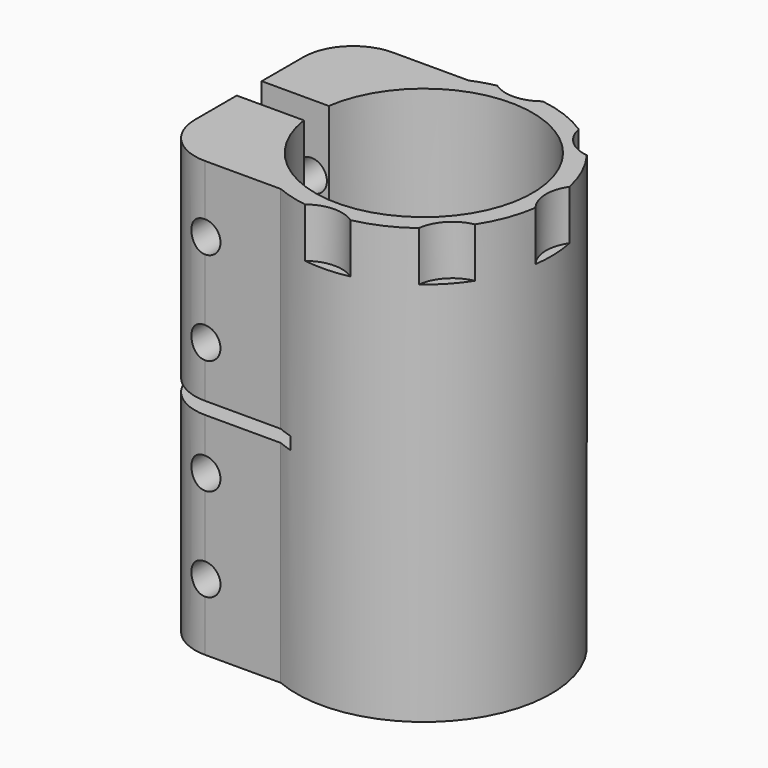
from build123d import *

# Parameters (mm, degrees)
F1_DEPTH       = 35
F3_D           = 5
F3_START       = 1.7550021
F3_CBORE_D     = 10
F3_CBORE_DEPTH = 8
F4_W           = 22.4
F4_H           = 2
F5_DEPTH       = 25
F6_R           = 6
F7_DEPTH       = 8


with BuildPart() as f1:
    # F0 (on Top) → F1 (new body, symmetric)
    with BuildSketch(Plane.XY):
        with BuildLine():
            ThreePointArc((-17.3192642082, 2.5086026559), (17.5, 0), (-17.3192642082, -2.5086026559))
            Line((-17.3192642082, -2.5086026559), (-20.3459311096, -2.5086026559))
            ThreePointArc((-20.3459311096, -2.5086026559), (-16.3392263155, -12.3806172468), (-7.9192642082, -18.9086026559))
            ThreePointArc((-7.9192642082, -18.9086026559), (20.5, 0), (-7.9192642082, 18.9086026559))
            Line((-7.9192642082, 18.9086026559), (-20.1192642082, 18.9086026559))
            ThreePointArc((-20.1192642082, 18.9086026559), (-25.7761184577, 16.5654569054), (-28.1192642082, 10.9086026559))
            Line((-28.1192642082, 10.9086026559), (-28.1192642082, 2.5086026559))
            Line((-28.1192642082, 2.5086026559), (-17.3192642082, 2.5086026559))
        make_face()
        with BuildLine():
            ThreePointArc((-7.9192642082, -18.9086026559), (-16.3392263155, -12.3806172468), (-20.3459311096, -2.5086026559))
            Line((-20.3459311096, -2.5086026559), (-28.1192642082, -2.5086026559))
            Line((-28.1192642082, -2.5086026559), (-28.1192642082, -10.9086026559))
            ThreePointArc((-28.1192642082, -10.9086026559), (-25.7761184577, -16.5654569054), (-20.1192642082, -18.9086026559))
            Line((-20.1192642082, -18.9086026559), (-7.9192642082, -18.9086026559))
        make_face()
    extrude(amount=F1_DEPTH, both=True)

    # F3 (through all)
    # its depths count from where the whole tool has entered the part; down to there all is cleared
    with Locations(Plane(origin=(0, 18.9086026559, 0), x_dir=(-1, 0, 0), z_dir=(0, 1, 0)).offset(-F3_START)):
        with Locations((20.1192642082, 24.25), (20.1192642082, 9.25), (20.1192642082, -9.25), (20.1192642082, -24.25)):
            CounterBoreHole(F3_D / 2, F3_CBORE_D / 2, F3_CBORE_DEPTH)

    # F4 (on Front) → F5 (cut, symmetric)
    with BuildSketch(Plane.XZ):
        with Locations((-16.9192642082, 0)):
            Rectangle(F4_W, F4_H)
    extrude(amount=F5_DEPTH, both=True, mode=Mode.SUBTRACT)

    # F6 (on face) → F7 (cut)
    with BuildSketch(Plane.XY.offset(35)):
        with Locations((0.8263058844, -25)):
            Circle(F6_R)
        with Locations((18.2619560239, -17.0933830355)):
            Circle(F6_R)
        with Locations((25, 0.8263058844)):
            Circle(F6_R)
        with Locations((17.0933830355, 18.2619560239)):
            Circle(F6_R)
        with Locations((-0.8263058844, 25)):
            Circle(F6_R)
    extrude(amount=-F7_DEPTH, mode=Mode.SUBTRACT)


solid = f1.part
